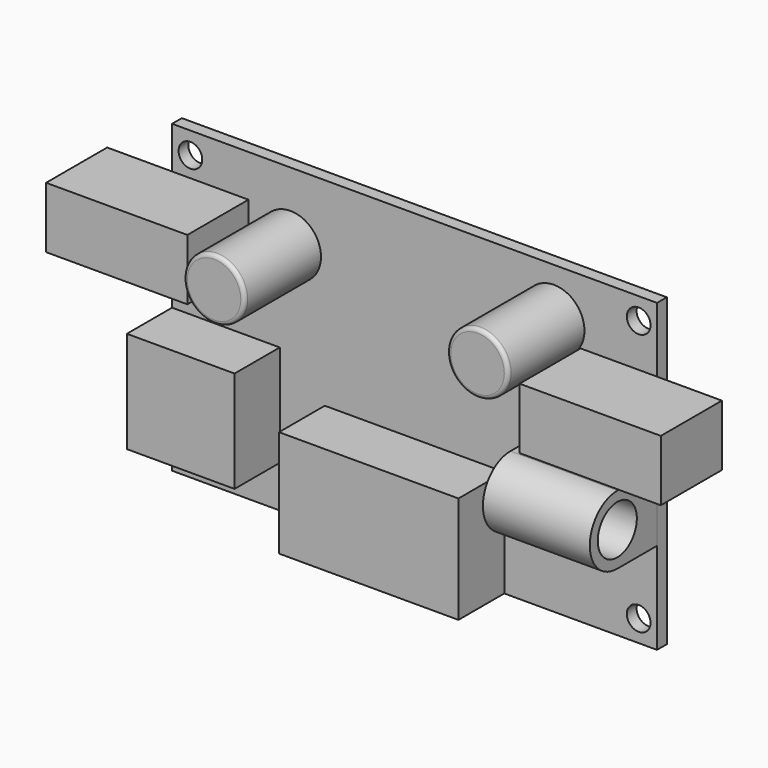
from build123d import *

# Parameters (mm, degrees)
F0_W      = 63.5
F0_H      = 40
F1_DEPTH  = 1.6
F2_D      = 3.1
F3_W      = 23.5
F3_H      = 14
F4_DEPTH  = 7.5
F5_W      = 14.1
F5_H      = 13.3
F6_DEPTH  = 7.4
F7_W      = 18.5
F7_H      = 8
F8_DEPTH  = 10
F9_R      = 4
F10_DEPTH = 12.5
F11_R     = 0.5
F12_R     = 3.2
F13_DEPTH = 14
F14_DEPTH = 7


with BuildPart() as f1:
    # F0 (on Front) → F1 (new body)
    with BuildSketch(Plane.XZ):
        Rectangle(F0_W, F0_H)
    extrude(amount=F1_DEPTH)

    # F2 (through all)
    with Locations(Plane(origin=(0, 0, 0), x_dir=(1, 0, 0), z_dir=(0, 1, 0))):
        with Locations((-29.35, 17.15), (29.35, 17.15), (29.35, -17.15), (-29.35, -17.15)):
            Hole(F2_D / 2)


with BuildPart() as f4:
    # F3 (on face) → F4 (new body)
    with BuildSketch(Plane.XZ.offset(1.6)):
        with Locations((0, -13)):
            Rectangle(F3_W, F3_H)
    extrude(amount=F4_DEPTH)


with BuildPart() as f6:
    # F5 (on face) → F6 (new body)
    with BuildSketch(Plane.XZ.offset(1.6)):
        with Locations((-24.7, -7.85)):
            Rectangle(F5_W, F5_H)
    extrude(amount=F6_DEPTH)


with BuildPart() as f8:
    # F7 (on face) → F8 (new body)
    with BuildSketch(Plane.XZ.offset(1.6)):
        with Locations((-31, 10.5)):
            Rectangle(F7_W, F7_H)
        with Locations((31, 7.5)):
            Rectangle(F7_W, F7_H)
    extrude(amount=F8_DEPTH)


with BuildPart() as f10:
    # F9 (on face) → F10 (new body)
    with BuildSketch(Plane.XZ.offset(1.6)):
        with Locations((-16.25, 11)):
            Circle(F9_R)
        with Locations((18.25, 13.7)):
            Circle(F9_R)
    extrude(amount=F10_DEPTH)

    # F11
    f11_edges = [f10.edges().sort_by_distance(p)[0] for p in [
        (-20.25, -14.1, 11),
        (14.25, -14.1, 13.7),
    ]]
    fillet(f11_edges, radius=F11_R)


with BuildPart() as f13:
    # F12 (on face) → F13 (new body)
    with BuildSketch(Plane.YZ.offset(31.75)):
        with BuildLine():
            Line((-8.1, -8), (-1.6, -8))
            Line((-1.6, -8), (-1.6, 1))
            Line((-1.6, 1), (-8.1, 1))
            ThreePointArc((-8.1, 1), (-12.6, -3.5), (-8.1, -8))
        make_face()
        with Locations((-8.1, -3.5)):
            Circle(F12_R, mode=Mode.SUBTRACT)
        with Locations((-8.1, -3.5)):
            Circle(F12_R)
    extrude(amount=-F13_DEPTH)

    # F12 (on face) → F14 (cut)
    with BuildSketch(Plane.YZ.offset(31.75)):
        with Locations((-8.1, -3.5)):
            Circle(F12_R)
    extrude(amount=-F14_DEPTH, mode=Mode.SUBTRACT)


solid = Compound([f1.part, f4.part, f6.part, f8.part, f10.part, f13.part])
